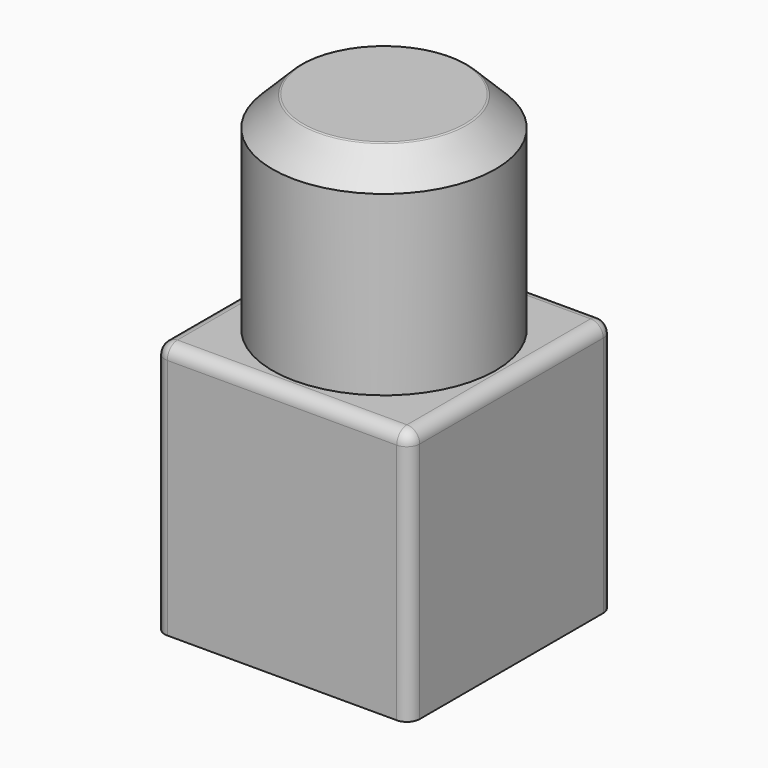
from build123d import *

# Parameters (mm, degrees)
F0_W     = 25.4
F0_H     = 25.4
F1_DEPTH = 12.7
F2_R     = 11.1125
F3_DEPTH = 20.6375
F4_SIZE  = 2.9718
F5_R     = 0.254
F6_R     = 1.27
F7_R     = 1.27
F8_R     = 1.27
F9_R     = 1.27
F10_T    = -2.54


with BuildPart() as f1:
    # F0 (on Front) → F1 (new body, symmetric)
    with BuildSketch(Plane.XZ):
        Rectangle(F0_W, F0_H)
    extrude(amount=F1_DEPTH, both=True)

    # F2 (on face) → F3 (join)
    with BuildSketch(Plane.XY.offset(12.7)):
        Circle(F2_R)
    extrude(amount=F3_DEPTH)

    # F4
    f4_edges = [f1.edges().sort_by_distance(p)[0] for p in [
        (-11.1125, 0, 33.3375),
    ]]
    chamfer(f4_edges, length=F4_SIZE)

    # F5
    f5_edges = [f1.edges().sort_by_distance(p)[0] for p in [
        (-8.1407, 0, 33.3375),
    ]]
    fillet(f5_edges, radius=F5_R)

    # F6
    f6_edges = [f1.edges().sort_by_distance(p)[0] for p in [
        (0, -12.7, 12.7),
    ]]
    fillet(f6_edges, radius=F6_R)

    # F7
    f7_edges = [f1.edges().sort_by_distance(p)[0] for p in [
        (12.7, 0.635, 12.7),
    ]]
    fillet(f7_edges, radius=F7_R)

    # F8
    f8_edges = [f1.edges().sort_by_distance(p)[0] for p in [
        (-12.7, 0.635, 12.7),
    ]]
    fillet(f8_edges, radius=F8_R)

    # F9
    f9_edges = [f1.edges().sort_by_distance(p)[0] for p in [
        (0, 12.7, 12.7),
    ]]
    fillet(f9_edges, radius=F9_R)

    # F10
    f10_openings = [f1.faces().sort_by_distance(p)[0] for p in [
        (0, 0, -12.7),
    ]]
    offset(amount=F10_T, openings=f10_openings, kind=Kind.INTERSECTION)


solid = f1.part
